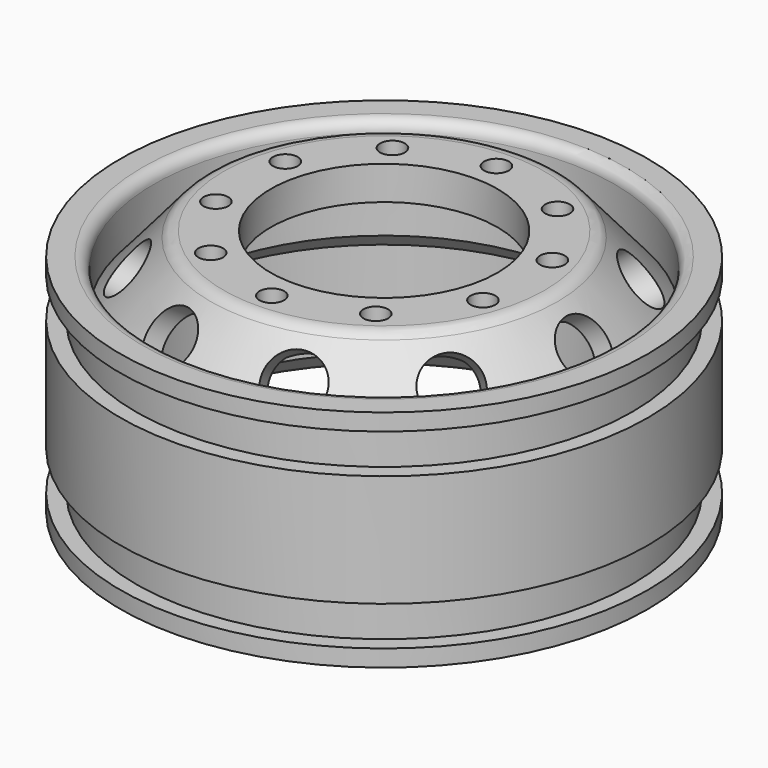
from build123d import *

# Parameters (mm, degrees)
CYLINDER090_R               = 10.1
CYLINDER090_DEPTH           = 26
CYLINDER014_R               = 1.1
CYLINDER014_DEPTH           = 10
CYLINDER013_R               = 1.1
CYLINDER013_DEPTH           = 10
FUSION009_PLACEMENT_ANGLE   = 54
CYLINDER016_R               = 1.1
CYLINDER016_DEPTH           = 10
CYLINDER015_R               = 1.1
CYLINDER015_DEPTH           = 10
FUSION010_PLACEMENT_ANGLE   = 162
CYLINDER018_R               = 1.1
CYLINDER018_DEPTH           = 10
CYLINDER017_R               = 1.1
CYLINDER017_DEPTH           = 10
FUSION011_PLACEMENT_ANGLE   = 126
CYLINDER020_R               = 1.1
CYLINDER020_DEPTH           = 10
CYLINDER019_R               = 1.1
CYLINDER019_DEPTH           = 10
FUSION012_PLACEMENT_ANGLE   = 90
CYLINDER012_R               = 1.1
CYLINDER012_DEPTH           = 10
CYLINDER011_R               = 1.1
CYLINDER011_DEPTH           = 10
FUSION008_PLACEMENT_ANGLE   = 18
CYLINDER004_R               = 2.5
CYLINDER004_DEPTH           = 8
CYLINDER004_PLACEMENT_ANGLE = 58
CYLINDER003_R               = 2.5
CYLINDER003_DEPTH           = 8
CYLINDER003_PLACEMENT_ANGLE = 58
FUSION003_PLACEMENT_ANGLE   = 36
CYLINDER006_R               = 2.5
CYLINDER006_DEPTH           = 8
CYLINDER006_PLACEMENT_ANGLE = 58
CYLINDER005_R               = 2.5
CYLINDER005_DEPTH           = 8
CYLINDER005_PLACEMENT_ANGLE = 58
FUSION004_PLACEMENT_ANGLE   = 72
CYLINDER008_R               = 2.5
CYLINDER008_DEPTH           = 8
CYLINDER008_PLACEMENT_ANGLE = 58
CYLINDER007_R               = 2.5
CYLINDER007_DEPTH           = 8
CYLINDER007_PLACEMENT_ANGLE = 58
FUSION005_PLACEMENT_ANGLE   = 108
CYLINDER010_R               = 2.5
CYLINDER010_DEPTH           = 8
CYLINDER010_PLACEMENT_ANGLE = 58
CYLINDER009_R               = 2.5
CYLINDER009_DEPTH           = 8
CYLINDER009_PLACEMENT_ANGLE = 58
FUSION006_PLACEMENT_ANGLE   = 144
CYLINDER002_R               = 2.5
CYLINDER002_DEPTH           = 8
CYLINDER002_PLACEMENT_ANGLE = 58
CYLINDER001_R               = 2.5
CYLINDER001_DEPTH           = 8
CYLINDER001_PLACEMENT_ANGLE = 58
CYLINDER_R                  = 20
CYLINDER_DEPTH              = 12
CYLINDER028_R               = 10
CYLINDER028_DEPTH           = 26
CYLINDER027_R               = 20.5
CYLINDER027_DEPTH           = 10
CYLINDER026_R               = 18.5
CYLINDER026_DEPTH           = 20
CYLINDER025_R               = 22.1
CYLINDER025_DEPTH           = 17
CYLINDER024_R               = 23.5
CYLINDER024_DEPTH           = 17
CYLINDER023_R               = 23.5
CYLINDER023_DEPTH           = 20
CYLINDER022_R               = 22
CYLINDER022_DEPTH           = 17
CYLINDER021_R               = 23.5
CYLINDER021_DEPTH           = 10
FILLET002_R                 = 1
CHAMFER001_SIZE             = 1.49
CHAMFER_SIZE                = 2
FILLET001_R                 = 1.5
FILLET_R                    = 1.5


with BuildPart() as cylinder090:
    # Cylinder090 → Cylinder090 (new body)
    with BuildSketch(Plane.XY):
        Circle(CYLINDER090_R)
    extrude(amount=CYLINDER090_DEPTH)


with BuildPart() as cylinder014:
    # Cylinder014 → Cylinder014 (new body)
    with BuildSketch(Plane(origin=(-12.5, 0, 13), x_dir=(1, 0, 0), z_dir=(0, 0, 1))):
        Circle(CYLINDER014_R)
    extrude(amount=CYLINDER014_DEPTH)


with BuildPart() as fusion009:
    # Cylinder013 → Cylinder013 (new body)
    with BuildSketch(Plane(origin=(12.5, 0, 13), x_dir=(1, 0, 0), z_dir=(0, 0, 1))):
        Circle(CYLINDER013_R)
    extrude(amount=CYLINDER013_DEPTH)

    # Fusion009: union Cylinder014
    add(cylinder014.part)


with BuildPart() as fusion009_1:
    # Fusion009 placement: moved
    add(fusion009.part.rotate(Axis((0, 0, 0), (0, 0, 1)), FUSION009_PLACEMENT_ANGLE))


with BuildPart() as cylinder016:
    # Cylinder016 → Cylinder016 (new body)
    with BuildSketch(Plane(origin=(-12.5, 0, 13), x_dir=(1, 0, 0), z_dir=(0, 0, 1))):
        Circle(CYLINDER016_R)
    extrude(amount=CYLINDER016_DEPTH)


with BuildPart() as fusion010:
    # Cylinder015 → Cylinder015 (new body)
    with BuildSketch(Plane(origin=(12.5, 0, 13), x_dir=(1, 0, 0), z_dir=(0, 0, 1))):
        Circle(CYLINDER015_R)
    extrude(amount=CYLINDER015_DEPTH)

    # Fusion010: union Cylinder016
    add(cylinder016.part)


with BuildPart() as fusion010_1:
    # Fusion010 placement: moved
    add(fusion010.part.rotate(Axis((0, 0, 0), (0, 0, 1)), FUSION010_PLACEMENT_ANGLE))


with BuildPart() as cylinder018:
    # Cylinder018 → Cylinder018 (new body)
    with BuildSketch(Plane(origin=(-12.5, 0, 13), x_dir=(1, 0, 0), z_dir=(0, 0, 1))):
        Circle(CYLINDER018_R)
    extrude(amount=CYLINDER018_DEPTH)


with BuildPart() as fusion011:
    # Cylinder017 → Cylinder017 (new body)
    with BuildSketch(Plane(origin=(12.5, 0, 13), x_dir=(1, 0, 0), z_dir=(0, 0, 1))):
        Circle(CYLINDER017_R)
    extrude(amount=CYLINDER017_DEPTH)

    # Fusion011: union Cylinder018
    add(cylinder018.part)


with BuildPart() as fusion011_1:
    # Fusion011 placement: moved
    add(fusion011.part.rotate(Axis((0, 0, 0), (0, 0, 1)), FUSION011_PLACEMENT_ANGLE))


with BuildPart() as cylinder020:
    # Cylinder020 → Cylinder020 (new body)
    with BuildSketch(Plane(origin=(-12.5, 0, 13), x_dir=(1, 0, 0), z_dir=(0, 0, 1))):
        Circle(CYLINDER020_R)
    extrude(amount=CYLINDER020_DEPTH)


with BuildPart() as fusion012:
    # Cylinder019 → Cylinder019 (new body)
    with BuildSketch(Plane(origin=(12.5, 0, 13), x_dir=(1, 0, 0), z_dir=(0, 0, 1))):
        Circle(CYLINDER019_R)
    extrude(amount=CYLINDER019_DEPTH)

    # Fusion012: union Cylinder020
    add(cylinder020.part)


with BuildPart() as fusion012_1:
    # Fusion012 placement: moved
    add(fusion012.part.rotate(Axis((0, 0, 0), (0, 0, 1)), FUSION012_PLACEMENT_ANGLE))


with BuildPart() as cylinder012:
    # Cylinder012 → Cylinder012 (new body)
    with BuildSketch(Plane(origin=(-12.5, 0, 13), x_dir=(1, 0, 0), z_dir=(0, 0, 1))):
        Circle(CYLINDER012_R)
    extrude(amount=CYLINDER012_DEPTH)


with BuildPart() as fusion007:
    # Cylinder011 → Cylinder011 (new body)
    with BuildSketch(Plane(origin=(12.5, 0, 13), x_dir=(1, 0, 0), z_dir=(0, 0, 1))):
        Circle(CYLINDER011_R)
    extrude(amount=CYLINDER011_DEPTH)

    # Fusion008: union Cylinder012
    add(cylinder012.part)


with BuildPart() as fusion007_1:
    # Fusion008 placement: moved
    add(fusion007.part.rotate(Axis((0, 0, 0), (0, 0, 1)), FUSION008_PLACEMENT_ANGLE))

    # Fusion007: union Fusion009, Fusion010, Fusion011, Fusion012
    add(fusion009_1.part)
    add(fusion010_1.part)
    add(fusion011_1.part)
    add(fusion012_1.part)


with BuildPart() as cylinder004:
    # Cylinder004 → Cylinder004 (new body)
    with BuildSketch(Plane.XY):
        Circle(CYLINDER004_R)
    extrude(amount=CYLINDER004_DEPTH)


with BuildPart() as cylinder004_1:
    # Cylinder004 placement: moved
    add(cylinder004.part.moved(Location((12, 0, 16))).rotate(Axis((12, 0, 16), (0, 1, 0)), CYLINDER004_PLACEMENT_ANGLE))


with BuildPart() as part_mirroring001:
    # Part__Mirroring001: instance of Cylinder004
    add(cylinder004_1.part.mirror(Plane(origin=(0, 0, 0), x_dir=(0, -1, 0), z_dir=(1, 0, 0))))


with BuildPart() as fusion003:
    # Cylinder003 → Cylinder003 (new body)
    with BuildSketch(Plane.XY):
        Circle(CYLINDER003_R)
    extrude(amount=CYLINDER003_DEPTH)


with BuildPart() as fusion003_1:
    # Cylinder003 placement: moved
    add(fusion003.part.moved(Location((12, 0, 16))).rotate(Axis((12, 0, 16), (0, 1, 0)), CYLINDER003_PLACEMENT_ANGLE))

    # Fusion003: union Part__Mirroring001
    add(part_mirroring001.part)


with BuildPart() as fusion003_2:
    # Fusion003 placement: moved
    add(fusion003_1.part.rotate(Axis((0, 0, 0), (0, 0, 1)), FUSION003_PLACEMENT_ANGLE))


with BuildPart() as cylinder006:
    # Cylinder006 → Cylinder006 (new body)
    with BuildSketch(Plane.XY):
        Circle(CYLINDER006_R)
    extrude(amount=CYLINDER006_DEPTH)


with BuildPart() as cylinder006_1:
    # Cylinder006 placement: moved
    add(cylinder006.part.moved(Location((12, 0, 16))).rotate(Axis((12, 0, 16), (0, 1, 0)), CYLINDER006_PLACEMENT_ANGLE))


with BuildPart() as part_mirroring002:
    # Part__Mirroring002: instance of Cylinder006
    add(cylinder006_1.part.mirror(Plane(origin=(0, 0, 0), x_dir=(0, -1, 0), z_dir=(1, 0, 0))))


with BuildPart() as fusion004:
    # Cylinder005 → Cylinder005 (new body)
    with BuildSketch(Plane.XY):
        Circle(CYLINDER005_R)
    extrude(amount=CYLINDER005_DEPTH)


with BuildPart() as fusion004_1:
    # Cylinder005 placement: moved
    add(fusion004.part.moved(Location((12, 0, 16))).rotate(Axis((12, 0, 16), (0, 1, 0)), CYLINDER005_PLACEMENT_ANGLE))

    # Fusion004: union Part__Mirroring002
    add(part_mirroring002.part)


with BuildPart() as fusion004_2:
    # Fusion004 placement: moved
    add(fusion004_1.part.rotate(Axis((0, 0, 0), (0, 0, 1)), FUSION004_PLACEMENT_ANGLE))


with BuildPart() as cylinder008:
    # Cylinder008 → Cylinder008 (new body)
    with BuildSketch(Plane.XY):
        Circle(CYLINDER008_R)
    extrude(amount=CYLINDER008_DEPTH)


with BuildPart() as cylinder008_1:
    # Cylinder008 placement: moved
    add(cylinder008.part.moved(Location((12, 0, 16))).rotate(Axis((12, 0, 16), (0, 1, 0)), CYLINDER008_PLACEMENT_ANGLE))


with BuildPart() as part_mirroring003:
    # Part__Mirroring003: instance of Cylinder008
    add(cylinder008_1.part.mirror(Plane(origin=(0, 0, 0), x_dir=(0, -1, 0), z_dir=(1, 0, 0))))


with BuildPart() as fusion005:
    # Cylinder007 → Cylinder007 (new body)
    with BuildSketch(Plane.XY):
        Circle(CYLINDER007_R)
    extrude(amount=CYLINDER007_DEPTH)


with BuildPart() as fusion005_1:
    # Cylinder007 placement: moved
    add(fusion005.part.moved(Location((12, 0, 16))).rotate(Axis((12, 0, 16), (0, 1, 0)), CYLINDER007_PLACEMENT_ANGLE))

    # Fusion005: union Part__Mirroring003
    add(part_mirroring003.part)


with BuildPart() as fusion005_2:
    # Fusion005 placement: moved
    add(fusion005_1.part.rotate(Axis((0, 0, 0), (0, 0, 1)), FUSION005_PLACEMENT_ANGLE))


with BuildPart() as cylinder010:
    # Cylinder010 → Cylinder010 (new body)
    with BuildSketch(Plane.XY):
        Circle(CYLINDER010_R)
    extrude(amount=CYLINDER010_DEPTH)


with BuildPart() as cylinder010_1:
    # Cylinder010 placement: moved
    add(cylinder010.part.moved(Location((12, 0, 16))).rotate(Axis((12, 0, 16), (0, 1, 0)), CYLINDER010_PLACEMENT_ANGLE))


with BuildPart() as part_mirroring004:
    # Part__Mirroring004: instance of Cylinder010
    add(cylinder010_1.part.mirror(Plane(origin=(0, 0, 0), x_dir=(0, -1, 0), z_dir=(1, 0, 0))))


with BuildPart() as fusion006:
    # Cylinder009 → Cylinder009 (new body)
    with BuildSketch(Plane.XY):
        Circle(CYLINDER009_R)
    extrude(amount=CYLINDER009_DEPTH)


with BuildPart() as fusion006_1:
    # Cylinder009 placement: moved
    add(fusion006.part.moved(Location((12, 0, 16))).rotate(Axis((12, 0, 16), (0, 1, 0)), CYLINDER009_PLACEMENT_ANGLE))

    # Fusion006: union Part__Mirroring004
    add(part_mirroring004.part)


with BuildPart() as fusion006_2:
    # Fusion006 placement: moved
    add(fusion006_1.part.rotate(Axis((0, 0, 0), (0, 0, 1)), FUSION006_PLACEMENT_ANGLE))


with BuildPart() as cylinder002:
    # Cylinder002 → Cylinder002 (new body)
    with BuildSketch(Plane.XY):
        Circle(CYLINDER002_R)
    extrude(amount=CYLINDER002_DEPTH)


with BuildPart() as cylinder002_1:
    # Cylinder002 placement: moved
    add(cylinder002.part.moved(Location((12, 0, 16))).rotate(Axis((12, 0, 16), (0, 1, 0)), CYLINDER002_PLACEMENT_ANGLE))


with BuildPart() as part_mirroring:
    # Part__Mirroring: instance of Cylinder002
    add(cylinder002_1.part.mirror(Plane(origin=(0, 0, 0), x_dir=(0, -1, 0), z_dir=(1, 0, 0))))


with BuildPart() as fusion001:
    # Cylinder001 → Cylinder001 (new body)
    with BuildSketch(Plane.XY):
        Circle(CYLINDER001_R)
    extrude(amount=CYLINDER001_DEPTH)


with BuildPart() as fusion001_1:
    # Cylinder001 placement: moved
    add(fusion001.part.moved(Location((12, 0, 16))).rotate(Axis((12, 0, 16), (0, 1, 0)), CYLINDER001_PLACEMENT_ANGLE))

    # Fusion002: union Part__Mirroring
    add(part_mirroring.part)

    # Fusion001: union Fusion003, Fusion004, Fusion005, Fusion006
    add(fusion003_2.part)
    add(fusion004_2.part)
    add(fusion005_2.part)
    add(fusion006_2.part)


with BuildPart() as fusion001_2:
    # Fusion001 placement: moved
    add(fusion001_1.part.moved(Location((0, 0, -1))))


with BuildPart() as cylinder:
    # Cylinder → Cylinder (new body)
    with BuildSketch(Plane.XY):
        Circle(CYLINDER_R)
    extrude(amount=CYLINDER_DEPTH)


with BuildPart() as cone001:
    # Cone001 → Cone001 (revolve)
    with BuildSketch(Plane(origin=(0, 0, 9), x_dir=(1, 0, 0), z_dir=(0, -1, 0))):
        Polygon((0, 0), (24, 0), (15, 10), (0, 10), align=None)
    revolve(axis=Axis((0, 0, 9), (0, 0, 1)))


with BuildPart() as cylinder028:
    # Cylinder028 → Cylinder028 (new body)
    with BuildSketch(Plane.XY):
        Circle(CYLINDER028_R)
    extrude(amount=CYLINDER028_DEPTH)


with BuildPart() as cut008:
    # Cone → Cone (revolve)
    with BuildSketch(Plane(origin=(0, 0, 15), x_dir=(1, 0, 0), z_dir=(0, -1, 0))):
        Polygon((0, 0), (21, 0), (15, 7), (0, 7), align=None)
    revolve(axis=Axis((0, 0, 15), (0, 0, 1)))

    # Cut009: cut Cylinder028
    add(cylinder028.part, mode=Mode.SUBTRACT)

    # Cut008: cut Cone001
    add(cone001.part, mode=Mode.SUBTRACT)


with BuildPart() as cylinder027:
    # Cylinder027 → Cylinder027 (new body)
    with BuildSketch(Plane.XY.offset(15)):
        Circle(CYLINDER027_R)
    extrude(amount=CYLINDER027_DEPTH)


with BuildPart() as cylinder026:
    # Cylinder026 → Cylinder026 (new body)
    with BuildSketch(Plane.XY):
        Circle(CYLINDER026_R)
    extrude(amount=CYLINDER026_DEPTH)


with BuildPart() as cylinder025:
    # Cylinder025 → Cylinder025 (new body)
    with BuildSketch(Plane.XY):
        Circle(CYLINDER025_R)
    extrude(amount=CYLINDER025_DEPTH)


with BuildPart() as cut007:
    # Cylinder024 → Cylinder024 (new body)
    with BuildSketch(Plane.XY):
        Circle(CYLINDER024_R)
    extrude(amount=CYLINDER024_DEPTH)

    # Cut007: cut Cylinder025
    add(cylinder025.part, mode=Mode.SUBTRACT)


with BuildPart() as cut007_1:
    # Cut007 placement: moved
    add(cut007.part.moved(Location((0, 0, 1.5))))


with BuildPart() as cut006:
    # Cylinder023 → Cylinder023 (new body)
    with BuildSketch(Plane.XY):
        Circle(CYLINDER023_R)
    extrude(amount=CYLINDER023_DEPTH)

    # Cut006: cut Cut007
    add(cut007_1.part, mode=Mode.SUBTRACT)


with BuildPart() as cylinder022:
    # Cylinder022 → Cylinder022 (new body)
    with BuildSketch(Plane.XY):
        Circle(CYLINDER022_R)
    extrude(amount=CYLINDER022_DEPTH)


with BuildPart() as rim_internal:
    # Cylinder021 → Cylinder021 (new body)
    with BuildSketch(Plane.XY.offset(0.5)):
        Circle(CYLINDER021_R)
    extrude(amount=CYLINDER021_DEPTH)

    # Cut005: cut Cylinder022
    add(cylinder022.part, mode=Mode.SUBTRACT)


with BuildPart() as rim_internal_1:
    # Cut005 placement: moved
    add(rim_internal.part.moved(Location((0, 0, 4.5))))

    # Fusion013: union Cut006
    add(cut006.part)

    # Cut004: cut Cylinder026
    add(cylinder026.part, mode=Mode.SUBTRACT)

    # Cut003: cut Cylinder027
    add(cylinder027.part, mode=Mode.SUBTRACT)

    # Fillet002
    fillet002_edges = [rim_internal_1.edges().sort_by_distance(p)[0] for p in [
        (-14.495689, 14.495689, 20),
    ]]
    fillet(fillet002_edges, radius=FILLET002_R)

    # Fusion: union Cut008
    add(cut008.part)

    # Cut002: cut Cylinder
    add(cylinder.part, mode=Mode.SUBTRACT)

    # Chamfer001
    chamfer001_edges = [rim_internal_1.edges().sort_by_distance(p)[0] for p in [
        (-20, 0, 12),
    ]]
    chamfer(chamfer001_edges, length=CHAMFER001_SIZE)

    # Chamfer
    chamfer_edges = [rim_internal_1.edges().sort_by_distance(p)[0] for p in [
        (-20, 0, 0),
    ]]
    chamfer(chamfer_edges, length=CHAMFER_SIZE)

    # Cut001: cut Fusion001
    add(fusion001_2.part, mode=Mode.SUBTRACT)

    # Cut: cut Fusion007
    add(fusion007_1.part, mode=Mode.SUBTRACT)

    # Fillet001
    fillet001_edges = [rim_internal_1.edges().sort_by_distance(p)[0] for p in [
        (-15, 0, 22),
    ]]
    fillet(fillet001_edges, radius=FILLET001_R)

    # Fillet
    fillet_edges = [rim_internal_1.edges().sort_by_distance(p)[0] for p in [
        (-22, 0, 0),
    ]]
    fillet(fillet_edges, radius=FILLET_R)

    # Cut031: cut Cylinder090
    add(cylinder090.part, mode=Mode.SUBTRACT)


solid = rim_internal_1.part
